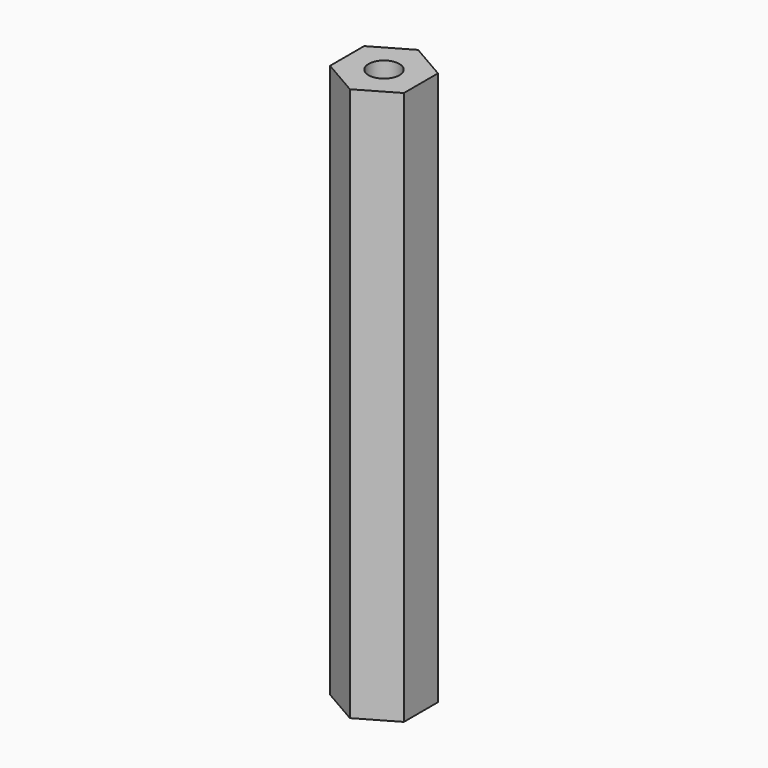
from build123d import *

# Parameters (mm, degrees)
PAD_DEPTH   = 45
SKETCH001_R = 1.25
HOLE_DEPTH  = 45.001


with BuildPart() as part:
    # Sketch → Pad (new body)
    with BuildSketch(Plane.XY):
        Polygon((-3, -1.732051), (0, -3.464102), (3, -1.732051), (3, 1.732051), (0, 3.464102), (-3, 1.732051), align=None)
    extrude(amount=PAD_DEPTH)

    # Sketch001 (on Face8 of Pad) → Hole (cut, through all)
    with BuildSketch(Plane.XY.offset(45)):
        Circle(SKETCH001_R)
    extrude(amount=-HOLE_DEPTH, mode=Mode.SUBTRACT)


solid = part.part
